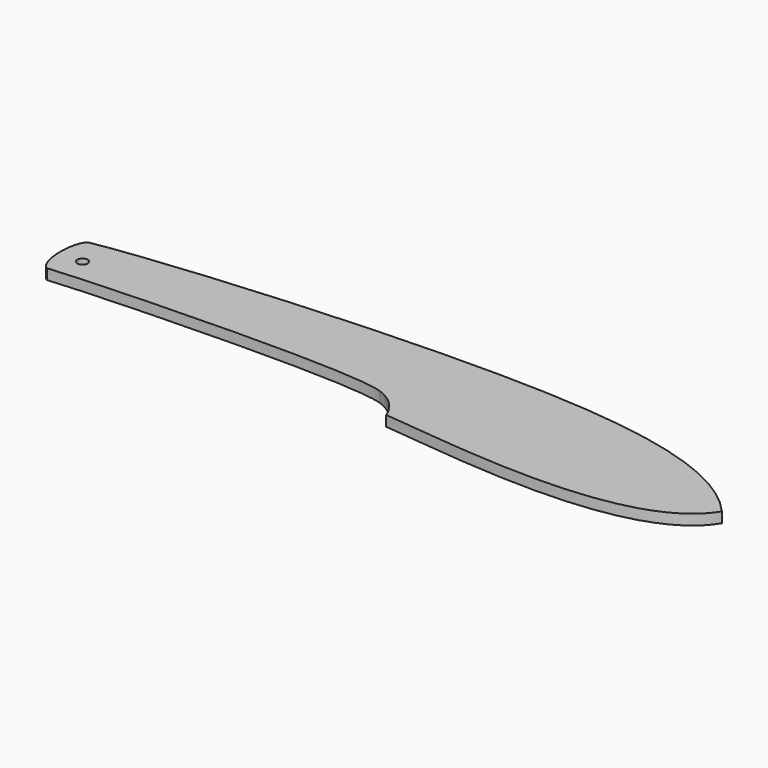
from build123d import *

# Parameters (mm, degrees)
F0_R     = 1.5875
F1_DEPTH = 3.175


with BuildPart() as f1:
    # F0 (on Top) → F1 (new body)
    with BuildSketch(Plane.XY):
        with BuildLine():
            add(Edge.make_bspline(
                [(198.12, -5.4292259738), (184.5660527897, -28.0191320926), (122.930863434, -17.8945506787), (105.2140353388, -16.4520314588)],
                knots=[0, 0, 0, 0, 93.5575785834, 93.5575785834, 93.5575785834, 93.5575785834], degree=3))
            add(Edge.make_bspline(
                [(198.12, -5.4292259738), (182.5063164984, 12.370372497), (112.3219469009, 20.9906558785), (10.5094795336, 11.4740038024), (-5.08, 8.5340185354)],
                knots=[0, 0, 0, 0, 0.4720497101, 1, 1, 1, 1], degree=3))
            add(Edge.make_bspline(
                [(-5.08, 8.5340185354), (-7.942054389, 6.5714671539), (-8.2691467515, -5.434848902), (-4.5075895879, -7.8880380124)],
                knots=[0, 0, 0, 0, 16.4320295441, 16.4320295441, 16.4320295441, 16.4320295441], degree=3))
            add(Edge.make_bspline(
                [(-4.5075895879, -7.8880380124), (5.710196705, -6.7006219788), (84.1534286737, -3.4922137856), (96.52, -7.8880380124)],
                knots=[0, 0, 0, 0, 101.0275895879, 101.0275895879, 101.0275895879, 101.0275895879], degree=3))
            ThreePointArc((96.52, -7.8880380124), (101.8163134503, -11.2063241586), (105.2140353388, -16.4520314588))
        make_face()
        Circle(F0_R, mode=Mode.SUBTRACT)
    extrude(amount=F1_DEPTH)


solid = f1.part
